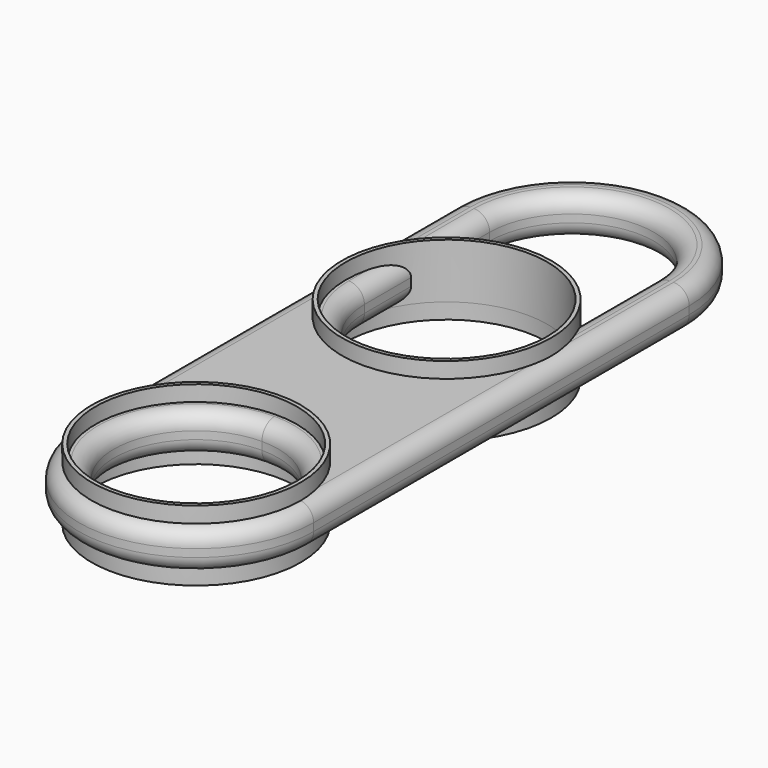
from build123d import *

# Parameters (mm, degrees)
F1_DEPTH      = 5
F2_R          = 2
F3_R          = 2
F4_R          = 13.375
F4_R_2        = 12.875
F5_DEPTH      = 7
F5_DEPTH_BACK = 2
F6_R          = 13.375
F6_R_2        = 12.875
F7_DEPTH      = 7
F7_DEPTH_BACK = 2


with BuildPart() as f1:
    # F0 (on Top) → F1 (new body)
    with BuildSketch(Plane.XY):
        with BuildLine():
            ThreePointArc((15, 30), (0, 45), (-15, 30))
            Line((-15, 30), (-15, -30))
            ThreePointArc((-15, -30), (0, -45), (15, -30))
            Line((15, -30), (15, 30))
        make_face()
        with BuildLine():
            ThreePointArc((10.5, -30), (-7.4246212025, -37.4246212025), (0, -19.5))
            ThreePointArc((0, -19.5), (7.4246212025, -22.5753787975), (10.5, -30))
        make_face(mode=Mode.SUBTRACT)
        with BuildLine():
            ThreePointArc((10.5, 10), (7.4246212025, 2.5753787975), (0, -0.5))
            ThreePointArc((0, -0.5), (-7.4246212025, 2.5753787975), (-10.5, 10))
            Line((-10.5, 10), (-10.5, 30))
            ThreePointArc((-10.5, 30), (0, 40.5), (10.5, 30))
            Line((10.5, 30), (10.5, 10))
        make_face(mode=Mode.SUBTRACT)
    extrude(amount=F1_DEPTH)

    # F2
    f2_edges = [f1.edges().sort_by_distance(p)[0] for p in [
        (0, 40.5, 5),
        (0, 40.5, 0),
        (15, 0, 0),
        (0, -40.5, 5),
        (0, -40.5, 0),
    ]]
    fillet(f2_edges, radius=F2_R)

    # F3
    f3_edges = [f1.edges().sort_by_distance(p)[0] for p in [
        (-15, 0, 5),
    ]]
    fillet(f3_edges, radius=F3_R)

    # F4 (on Top) → F5 (join, two sides)
    with BuildSketch(Plane.XY) as f5_sk:
        with Locations((0, -30)):
            Circle(F4_R)
        with Locations((0, -30)):
            Circle(F4_R_2, mode=Mode.SUBTRACT)
    extrude(amount=F5_DEPTH)
    extrude(f5_sk.sketch, amount=-F5_DEPTH_BACK)

    # F6 (on Top) → F7 (join, two sides)
    with BuildSketch(Plane.XY) as f7_sk:
        with Locations((0, 10)):
            Circle(F6_R)
        with Locations((0, 10)):
            Circle(F6_R_2, mode=Mode.SUBTRACT)
    extrude(amount=F7_DEPTH)
    extrude(f7_sk.sketch, amount=-F7_DEPTH_BACK)


solid = f1.part
